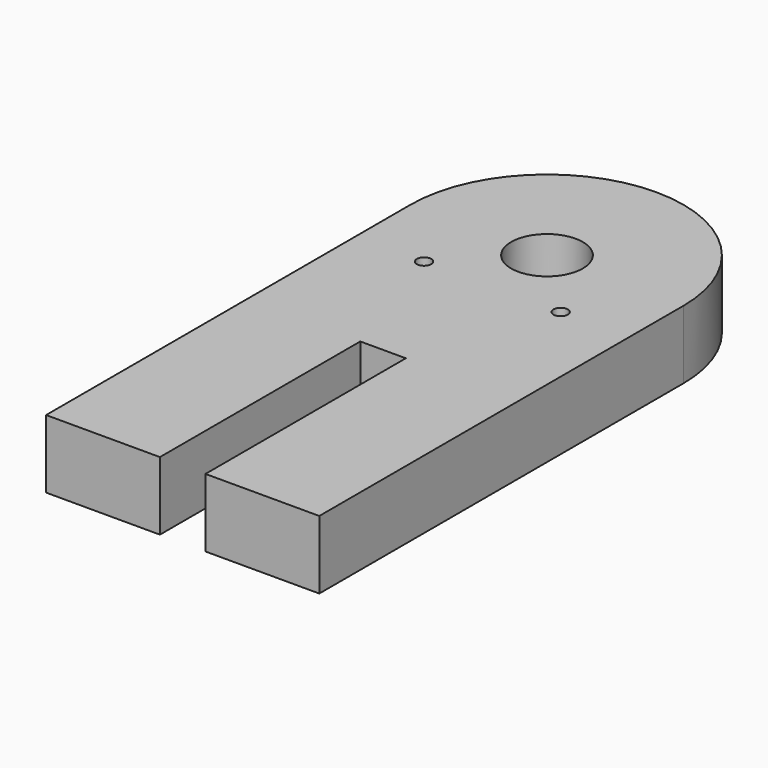
from build123d import *

# Parameters (mm, degrees)
F0_R     = 0.5
F0_R_2   = 2.5
F1_DEPTH = 4.7625


with BuildPart() as f1:
    # F0 (on Top) → F1 (new body)
    with BuildSketch(Plane.XY):
        with BuildLine():
            Line((9.525, -31.75), (9.525, 0))
            ThreePointArc((9.525, 0), (0, 9.525), (-9.525, 0))
            Line((-9.525, 0), (-9.525, -31.75))
            Line((-9.525, -31.75), (-1.5875, -31.75))
            Line((-1.5875, -31.75), (-1.5875, -14.2875))
            Line((-1.5875, -14.2875), (1.5875, -14.2875))
            Line((1.5875, -14.2875), (1.5875, -31.75))
            Line((1.5875, -31.75), (9.525, -31.75))
        make_face()
        with Locations((-4.7625, -4.7625)):
            Circle(F0_R, mode=Mode.SUBTRACT)
        with Locations((4.7625, -4.7625)):
            Circle(F0_R, mode=Mode.SUBTRACT)
        Circle(F0_R_2, mode=Mode.SUBTRACT)
    extrude(amount=F1_DEPTH)


solid = f1.part
